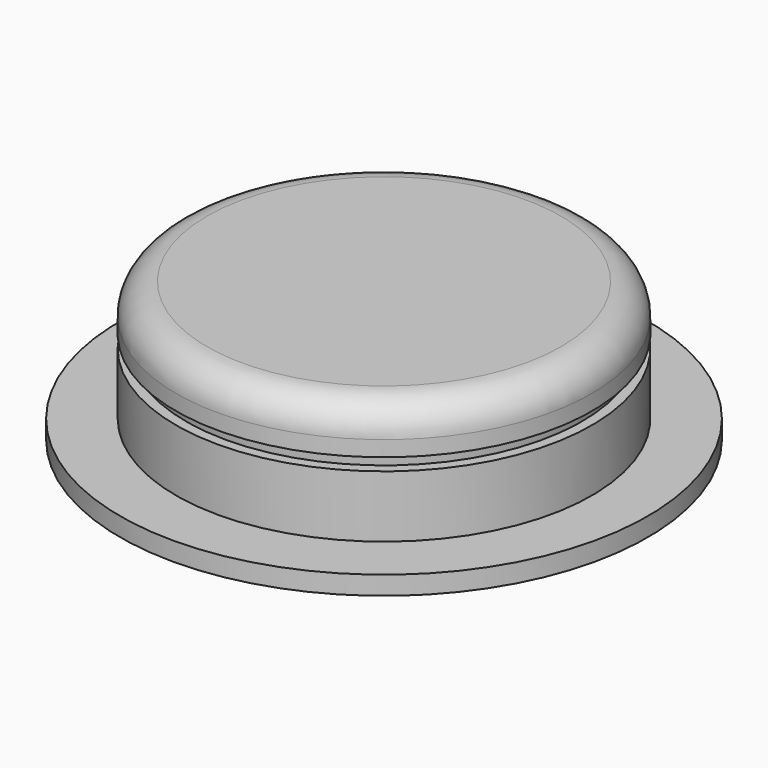
from build123d import *

# Parameters (mm, degrees)
F2_R = 5


with BuildPart() as f1:
    # F0 (on Front) → F1 (revolve)
    with BuildSketch(Plane.XZ):
        with BuildLine():
            Line((0, -2.5), (0, 0))
            Line((0, 0), (-33.5, 0))
            Line((-33.5, 0), (-33.5, -7.5))
            Line((-33.5, -7.5), (-31.5, -7.5))
            ThreePointArc((-31.5, -7.5), (-31.240732, -11.533196), (-30.467195, -15.5))
            Line((-30.467195, -15.5), (-26.5, -15.5))
            Line((-26.5, -15.5), (-26.5, -14.5))
            Line((-26.5, -14.5), (-29.5, -11.5))
            Line((-29.5, -11.5), (-29.5, -2))
            Line((-29.5, -2), (-6.689544, -2))
            ThreePointArc((-6.689544, -2), (-3.354102, -2.374826), (0, -2.5))
        make_face()
    revolve(axis=Axis((0, 0, -1.25), (0, 0, 1)))

    # F2
    f2_edges = [f1.edges().sort_by_distance(p)[0] for p in [
        (29.5, 0, -2),
        (33.5, 0, 0),
    ]]
    fillet(f2_edges, radius=F2_R)


with BuildPart() as f4:
    # F3 (on Right) → F4 (revolve)
    with BuildSketch(Plane.YZ):
        Polygon((0, -22.461947), (0, -19.461947), (-31, -19.461947), (-31.871557, -9.5), (-33.5, -9.5), (-33.5, -19.461947), (-42.5, -19.461947), (-42.5, -22.461947), align=None)
    revolve(axis=Axis((0, 0, -20.961947), (0, 0, 1)))


solid = Compound([f1.part, f4.part])
